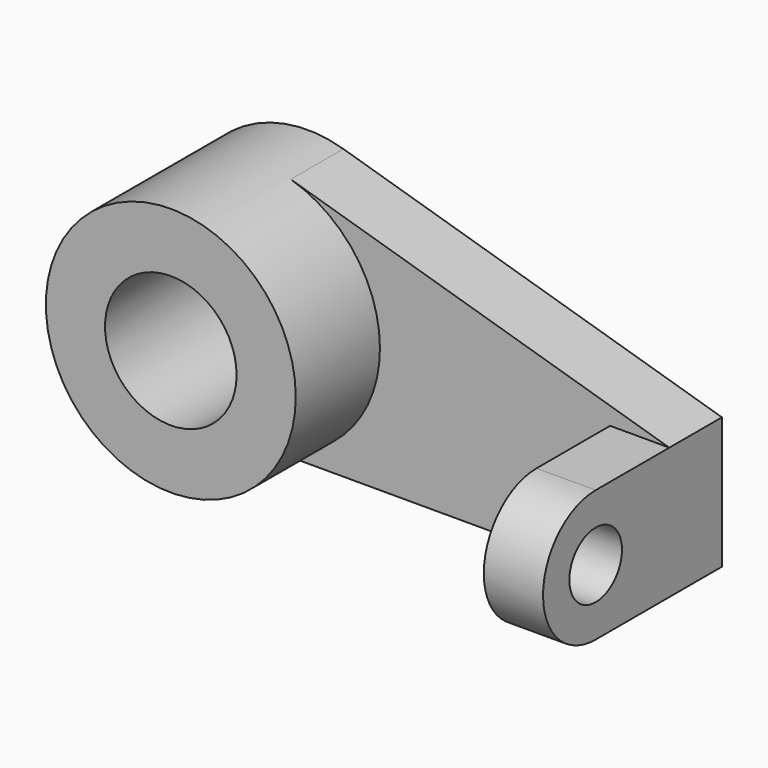
from build123d import *

# Parameters (mm, degrees)
F0_R     = 30.1625
F0_R_2   = 15.875
F1_DEPTH = 41.275
F3_DEPTH = 15.875
F4_W     = 14.2875
F4_H     = 31.75
F5_DEPTH = 22.225
F7_DEPTH = 14.2875
F8_R     = 7.9375
F9_DEPTH = 25.4


with BuildPart() as f1:
    # F0 (on Front) → F1 (new body)
    with BuildSketch(Plane.XZ):
        with Locations((-43.274074, 0)):
            Circle(F0_R)
        with Locations((-43.274074, 0)):
            Circle(F0_R_2, mode=Mode.SUBTRACT)
    extrude(amount=F1_DEPTH)

    # F2 (on face) → F3 (join)
    with BuildSketch(Plane(origin=(0, 0, 0), x_dir=(-1, 0, 0), z_dir=(0, 1, 0))):
        with BuildLine():
            Line((-56.738426, -30.1625), (43.274074, -30.1625))
            ThreePointArc((43.274074, -30.1625), (13.429074, -4.364901), (34.636165, 28.899185))
            Line((34.636165, 28.899185), (-56.738426, 1.5875))
            Line((-56.738426, 1.5875), (-56.738426, -30.1625))
        make_face()
    extrude(amount=-F3_DEPTH)

    # F4 (on face) → F5 (join)
    with BuildSketch(Plane.XZ.offset(15.875)):
        with Locations((49.594676, -14.2875)):
            Rectangle(F4_W, F4_H)
    extrude(amount=F5_DEPTH)

    # F6 (on face) → F7 (join)
    with BuildSketch(Plane.YZ.offset(56.738426)):
        with BuildLine():
            Line((-38.1, -30.1625), (-38.1, 1.5875))
            ThreePointArc((-38.1, 1.5875), (-53.975, -14.2875), (-38.1, -30.1625))
        make_face()
    extrude(amount=-F7_DEPTH)

    # F8 (on face) → F9 (cut)
    with BuildSketch(Plane.YZ.offset(56.738426)):
        with Locations((-38.1, -14.2875)):
            Circle(F8_R)
    extrude(amount=-F9_DEPTH, mode=Mode.SUBTRACT)


solid = f1.part
